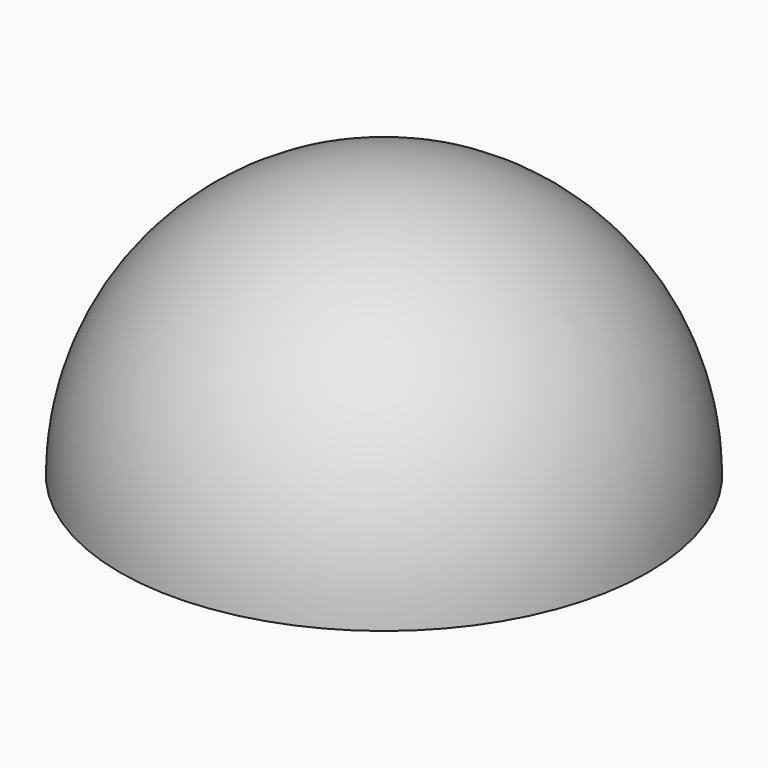
from build123d import *

# Parameters (mm, degrees)
BOX013_W     = 121
BOX013_H     = 121
BOX013_DEPTH = 60.5


with BuildPart() as obj1:
    # Box013 → Box013 (new body)
    with BuildSketch(Plane(origin=(-60.5, -60.5, -45.5), x_dir=(1, 0, 0), z_dir=(0, 0, 1))):
        with Locations((60.5, 60.5)):
            Rectangle(BOX013_W, BOX013_H)
    extrude(amount=BOX013_DEPTH)


with BuildPart() as cockpitglassinnercutter:
    # Sphere001 → Sphere001 (revolve)
    with BuildSketch(Plane(origin=(0, 0, 15), x_dir=(1, 0, 0), z_dir=(0, -1, 0))):
        with BuildLine():
            ThreePointArc((0, -59), (59, 0), (0, 59))
            Line((0, 59), (0, -59))
        make_face()
    revolve(axis=Axis((0, 0, 15), (0, 0, 1)))


with BuildPart() as cockpitglass1:
    # Sphere → Sphere (revolve)
    with BuildSketch(Plane(origin=(0, 0, 15), x_dir=(1, 0, 0), z_dir=(0, -1, 0))):
        with BuildLine():
            ThreePointArc((0, -60.5), (60.5, 0), (0, 60.5))
            Line((0, 60.5), (0, -60.5))
        make_face()
    revolve(axis=Axis((0, 0, 15), (0, 0, 1)))

    # Cut038: cut CockpitGlassInnerCutter
    add(cockpitglassinnercutter.part, mode=Mode.SUBTRACT)

    # Cut039: cut obj1
    add(obj1.part, mode=Mode.SUBTRACT)


solid = cockpitglass1.part
